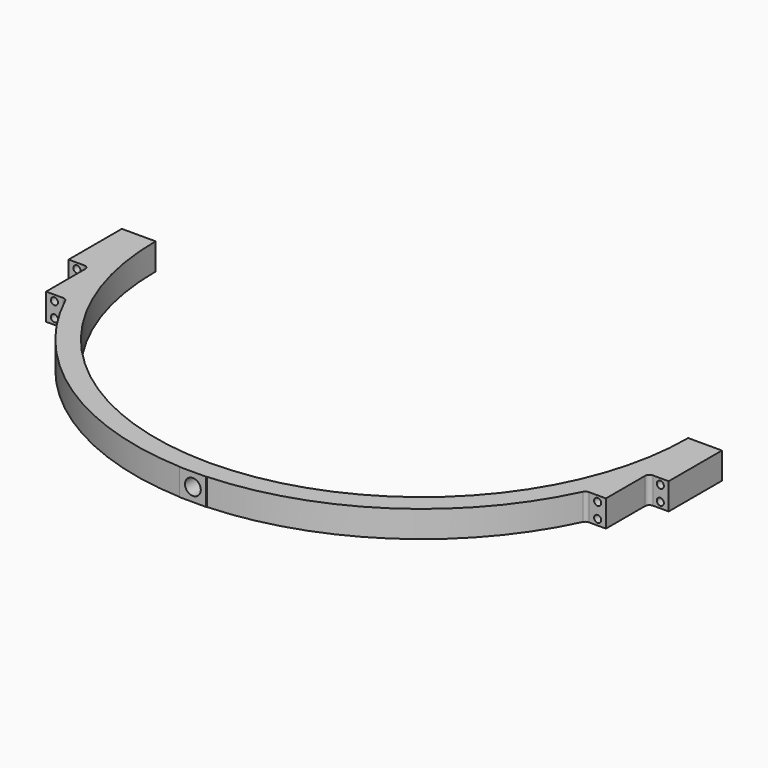
from build123d import *

# Parameters (mm, degrees)
F1_DEPTH = 50.8
F4_D     = 13.49248
F5_D     = 13.49248
F8_D     = 30.1625


with BuildPart() as f1:
    # F0 (on Top) → F1 (new body)
    with BuildSketch(Plane.XY):
        with BuildLine():
            ThreePointArc((0, -508), (-359.2102448428, -359.2102448428), (-508, 0))
            Line((-508, 0), (-546.1, 0))
            Line((-546.1, 0), (-572.4023011247, 0))
            Line((-572.4023011247, 0), (-572.4023011247, -127))
            Line((-572.4023011247, -127), (-542.5175210867, -127))
            ThreePointArc((-542.5175210867, -127), (-536.5306836727, -129.4798292526), (-534.0508544201, -135.4666666667))
            Line((-534.0508544201, -135.4666666667), (-534.0508544201, -228.6))
            Line((-534.0508544201, -228.6), (-501.3417829518, -228.6))
            ThreePointArc((-501.3417829518, -228.6), (-496.8118429706, -229.9137589914), (-493.6877099297, -233.4473282443))
            ThreePointArc((-493.6877099297, -233.4473282443), (-303.0926410641, -454.2687100525), (-26.02025103, -545.47974897))
            Line((-26.02025103, -545.47974897), (-25.4, -546.1))
            Line((-25.4, -546.1), (0, -546.1))
            Line((0, -546.1), (0, -508))
        make_face()
    extrude(amount=F1_DEPTH)

    # F4 (through all)
    with Locations(Plane.XZ.offset(127)):
        with Locations((-556.5273011247, 11.1125), (-556.5273011247, 39.6875)):
            Hole(F4_D / 2)

    # F5 (through all)
    with Locations(Plane.XZ.offset(228.6)):
        with Locations((-518.1758544201, 39.6875), (-518.1758544201, 11.1125)):
            Hole(F5_D / 2)

    # F6: F1 across plane


with BuildPart() as f1_1:
    add(f1.part)
    add(f1.part.mirror(Plane.YZ))

    # F8 (through all)
    with Locations(Plane.XZ.offset(546.1)):
        with Locations((0, 25.4)):
            Hole(F8_D / 2)


solid = f1_1.part
